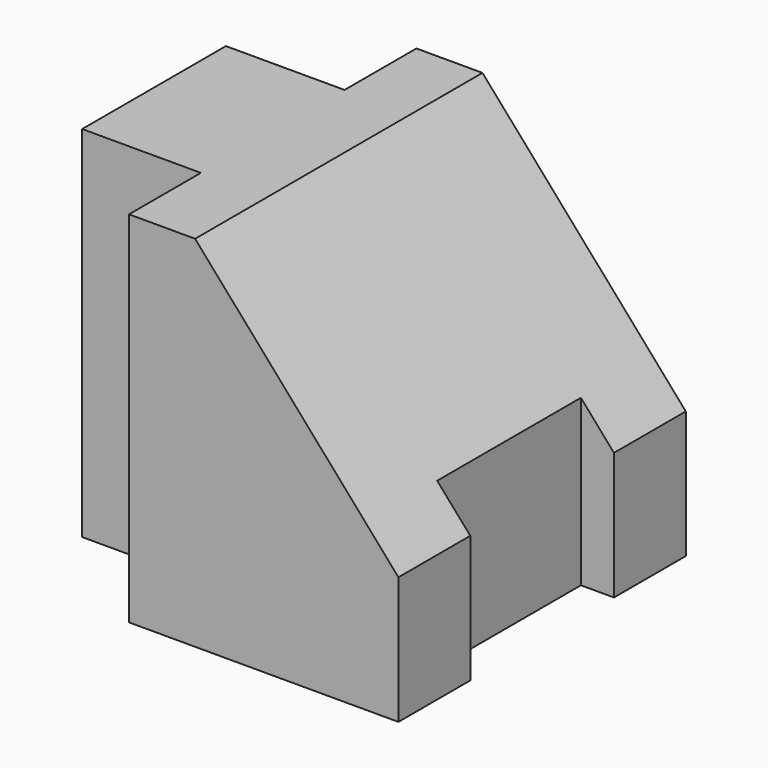
from build123d import *

# Parameters (mm, degrees)
F1_DEPTH = 25.4
F2_DEPTH = 25.4
F4_DEPTH = 68.58


with BuildPart() as f1:
    # F0 (on Top) → F1 (new body)
    with BuildSketch(Plane.XY):
        Polygon((16.782857, 38.1), (0, 38.1), (0, 12.7), (16.782857, 12.7), (16.782857, 0), (29.482857, 0), (29.482857, 50.8), (16.782857, 50.8), align=None)
        Polygon((54.882857, 50.8), (29.482857, 50.8), (29.482857, 0), (54.882857, 0), (54.882857, 12.7), (50.20391, 12.7), (50.20391, 38.099997), (54.882857, 38.099997), align=None)
    extrude(amount=F1_DEPTH)

    # F1_face (on face) → F2 (join)
    with BuildSketch(Plane(origin=(29.731958, 25.4, 25.4), x_dir=(1, 0, 0), z_dir=(0, 0, 1))):
        Polygon((-12.949101, 25.4), (-12.949101, 12.7), (-29.731958, 12.7), (-29.731958, -12.7), (-12.949101, -12.7), (-12.949101, -25.4), (25.150899, -25.4), (25.150899, -12.7), (20.471952, -12.7), (20.471952, 12.699997), (25.150899, 12.699997), (25.150899, 25.4), align=None)
    extrude(amount=F2_DEPTH)

    # F3 (on face) → F4 (cut)
    with BuildSketch(Plane.XZ):
        Polygon((54.882857, 50.8), (26.128728, 50.8), (54.882857, 18.009631), align=None)
    extrude(amount=-F4_DEPTH, mode=Mode.SUBTRACT)


solid = f1.part
